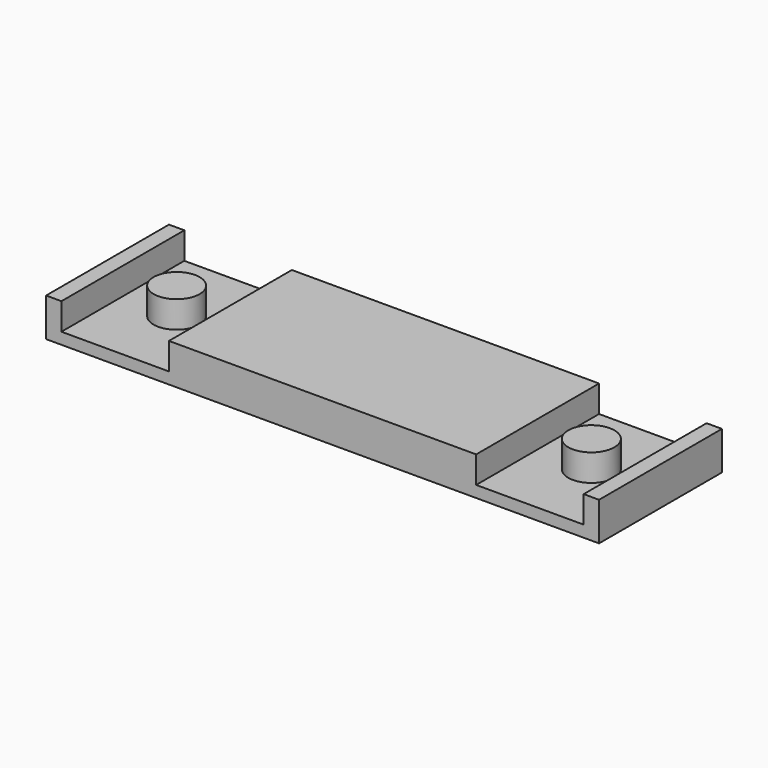
from build123d import *

# Parameters (mm, degrees)
F0_W     = 72
F0_H     = 20
F1_DEPTH = 5
F2_W     = 14
F2_H     = 20
F3_DEPTH = 3.5
F4_R     = 3
F5_DEPTH = 3.5


with BuildPart() as f1:
    # F0 (on Top) → F1 (new body)
    with BuildSketch(Plane.XY):
        Rectangle(F0_W, F0_H)
    extrude(amount=F1_DEPTH)

    # F2 (on face) → F3 (cut)
    with BuildSketch(Plane.XY.offset(5)):
        with Locations((27, 0)):
            Rectangle(F2_W, F2_H)
        with Locations((-27, 0)):
            Rectangle(F2_W, F2_H)
    extrude(amount=-F3_DEPTH, mode=Mode.SUBTRACT)

    # F4 (on face) → F5 (join)
    with BuildSketch(Plane.XY.offset(1.5)):
        with Locations((-27, 0)):
            Circle(F4_R)
        with Locations((27, 0)):
            Circle(F4_R)
    extrude(amount=F5_DEPTH)


solid = f1.part
